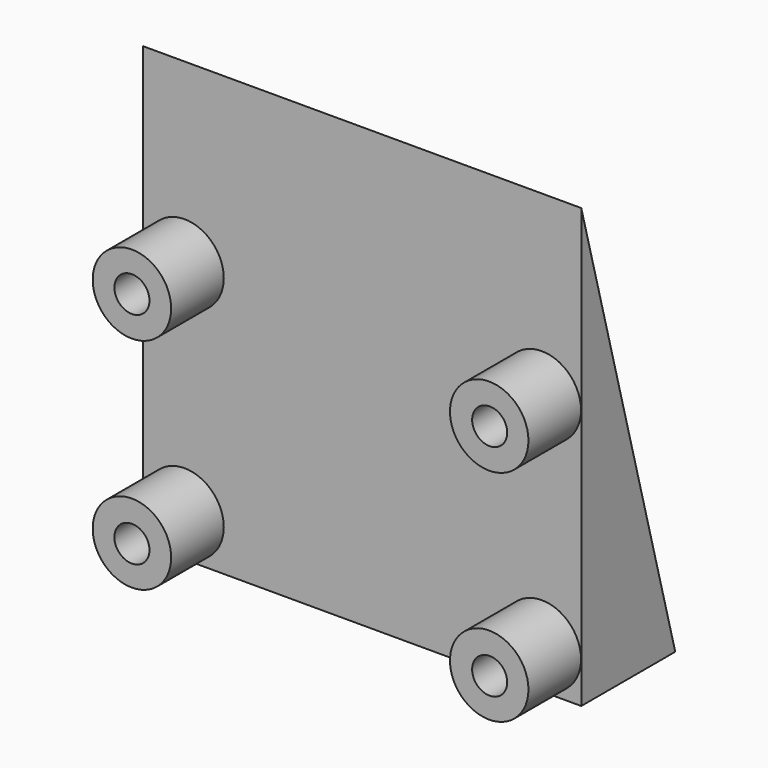
from build123d import *

# Parameters (mm, degrees)
F1_DEPTH = 12.7
F2_R     = 2.2733
F3_DEPTH = 3.81
F4_R     = 1.016
F5_DEPTH = 10.616909


with BuildPart() as f1:
    # F0 (on Right) → F1 (new body, symmetric)
    with BuildSketch(Plane.YZ):
        Polygon((6.805909, -12.7), (0, 12.7), (0, -12.7), align=None)
    extrude(amount=F1_DEPTH, both=True)

    # F2 (on face) → F3 (join)
    with BuildSketch(Plane.XZ):
        with Locations((-10.28534, -10.315215)):
            Circle(F2_R)
        with Locations((10.413997, -10.315215)):
            Circle(F2_R)
        with Locations((-10.28534, 2.384785)):
            Circle(F2_R)
        with Locations((10.413997, 2.384785)):
            Circle(F2_R)
    extrude(amount=F3_DEPTH)

    # F4 (on face) → F5 (cut, through all)
    with BuildSketch(Plane.XZ.offset(3.81)):
        with Locations((-10.28534, 2.384785)):
            Circle(F4_R)
        with Locations((-10.28534, -10.345133)):
            Circle(F4_R)
        with Locations((10.44106, 2.384785)):
            Circle(F4_R)
        with Locations((10.44106, -10.345133)):
            Circle(F4_R)
    extrude(amount=-F5_DEPTH, mode=Mode.SUBTRACT)


solid = f1.part
